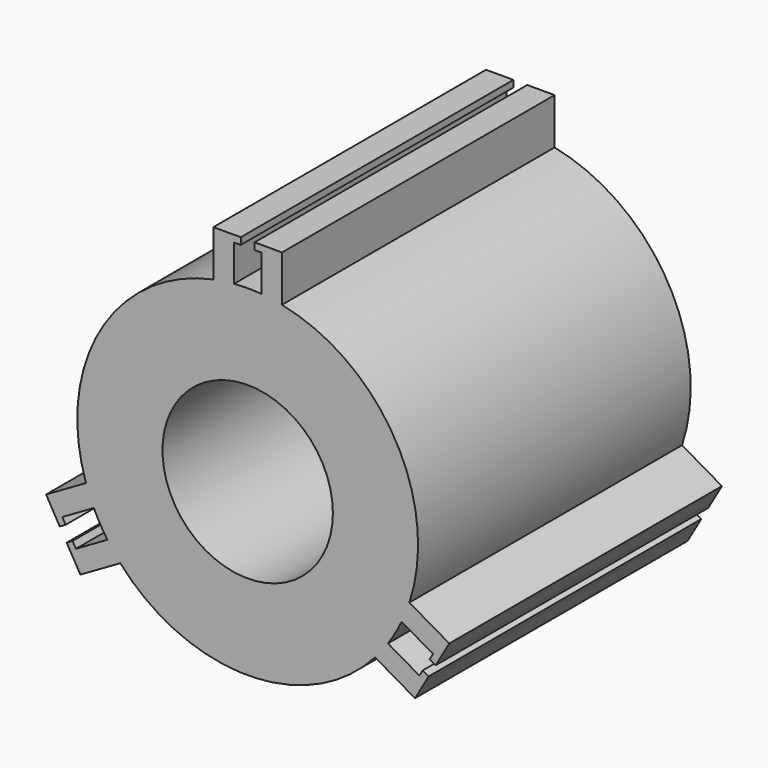
from build123d import *

# Parameters (mm, degrees)
F0_R     = 3.175
F1_DEPTH = 12.7


with BuildPart() as f1:
    # F0 (on Front) → F1 (new body)
    with BuildSketch(Plane.XZ):
        with BuildLine():
            Line((0.507003, 7.684488), (0.507003, 6.329727))
            ThreePointArc((0.507003, 6.329727), (0, 6.35), (-0.507003, 6.329727))
            Line((-0.507003, 6.329727), (-0.507003, 7.684488))
            Line((-0.507003, 7.684488), (-0.257541, 7.684488))
            Line((-0.257541, 7.684488), (-0.257541, 7.937779))
            Line((-0.257541, 7.937779), (-0.507003, 7.937779))
            Line((-0.507003, 7.937779), (-1.277548, 7.937779))
            Line((-1.277548, 7.937779), (-1.277548, 6.220158))
            ThreePointArc((-1.277548, 6.220158), (-5.499261, 3.175), (-6.025589, -2.00369))
            Line((-6.025589, -2.00369), (-7.513093, -2.8625))
            Line((-7.513093, -2.8625), (-7.12782, -3.529812))
            Line((-7.12782, -3.529812), (-7.003089, -3.745852))
            Line((-7.003089, -3.745852), (-6.783733, -3.619207))
            Line((-6.783733, -3.619207), (-6.908463, -3.403167))
            Line((-6.908463, -3.403167), (-5.735206, -2.725786))
            ThreePointArc((-5.735206, -2.725786), (-5.499261, -3.175), (-5.228203, -3.603941))
            Line((-5.228203, -3.603941), (-6.401461, -4.281321))
            Line((-6.401461, -4.281321), (-6.526191, -4.065281))
            Line((-6.526191, -4.065281), (-6.745548, -4.191927))
            Line((-6.745548, -4.191927), (-6.620817, -4.407967))
            Line((-6.620817, -4.407967), (-6.235544, -5.075279))
            Line((-6.235544, -5.075279), (-4.748041, -4.216469))
            ThreePointArc((-4.748041, -4.216469), (0, -6.35), (4.748041, -4.216469))
            Line((4.748041, -4.216469), (6.235544, -5.075279))
            Line((6.235544, -5.075279), (6.620817, -4.407967))
            Line((6.620817, -4.407967), (6.745548, -4.191927))
            Line((6.745548, -4.191927), (6.526191, -4.065281))
            Line((6.526191, -4.065281), (6.401461, -4.281321))
            Line((6.401461, -4.281321), (5.228203, -3.603941))
            ThreePointArc((5.228203, -3.603941), (5.499261, -3.175), (5.735206, -2.725786))
            Line((5.735206, -2.725786), (6.908463, -3.403167))
            Line((6.908463, -3.403167), (6.783733, -3.619207))
            Line((6.783733, -3.619207), (7.003089, -3.745852))
            Line((7.003089, -3.745852), (7.12782, -3.529812))
            Line((7.12782, -3.529812), (7.513093, -2.8625))
            Line((7.513093, -2.8625), (6.025589, -2.00369))
            ThreePointArc((6.025589, -2.00369), (5.499261, 3.175), (1.277548, 6.220158))
            Line((1.277548, 6.220158), (1.277548, 7.937779))
            Line((1.277548, 7.937779), (0.507003, 7.937779))
            Line((0.507003, 7.937779), (0.257541, 7.937779))
            Line((0.257541, 7.937779), (0.257541, 7.684488))
            Line((0.257541, 7.684488), (0.507003, 7.684488))
        make_face()
        Circle(F0_R, mode=Mode.SUBTRACT)
    extrude(amount=F1_DEPTH)


solid = f1.part
